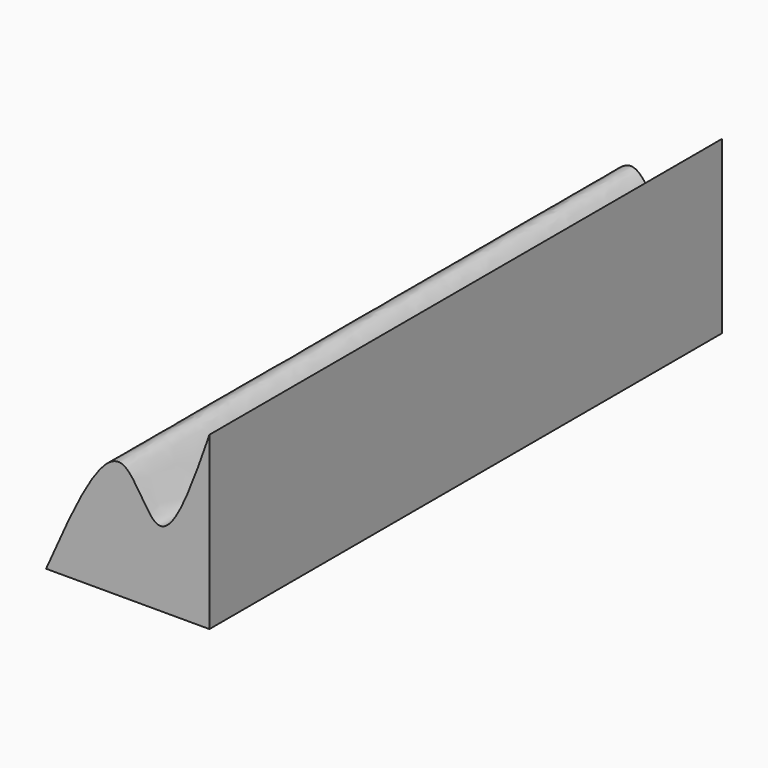
from build123d import *

# Parameters (mm, degrees)
F1_DEPTH = 255


with BuildPart() as f1:
    # F0 (on Front) → F1 (new body)
    with BuildSketch(Plane.XZ):
        with BuildLine():
            add(Edge.make_bspline(
                [(0, 0), (10.9185840952, 24.8473862074), (28.6820213146, 65.2715823402), (45.9241574, 13.3115053396), (57.9764856801, 47.893559537), (65.0268569589, 68.123370409)],
                knots=[0, 0, 0, 0, 0.3983225682, 0.6480307219, 1, 1, 1, 1], degree=3))
            Line((0, 0), (65.0268569589, 0))
            Line((65.0268569589, 0), (65.0268569589, 68.123370409))
        make_face()
    extrude(amount=F1_DEPTH)


solid = f1.part
